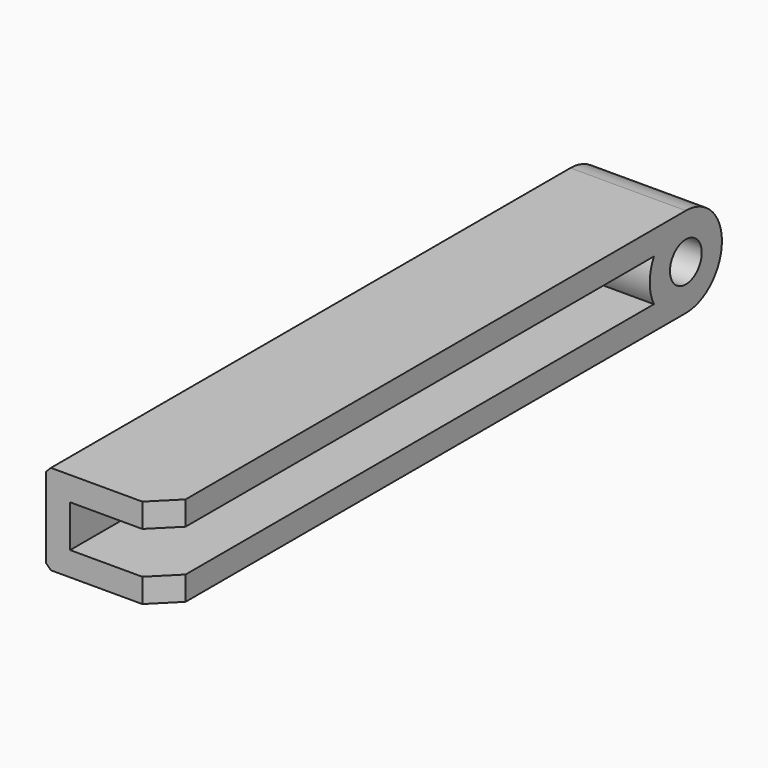
from build123d import *

# Parameters (mm, degrees)
CYLINDER018_R      = 1.65
CYLINDER018_DEPTH  = 10
CYLINDER017_R      = 3.75
CYLINDER017_DEPTH  = 10
BOX013_W           = 10
BOX013_H           = 54
BOX013_DEPTH       = 2
BOX012_W           = 10
BOX012_H           = 54
BOX012_DEPTH       = 2
BOX014_W           = 2
BOX014_H           = 54
BOX014_DEPTH       = 7.5
CHAMFER006002_SIZE = 2
CHAMFER006003_SIZE = 0.4


with BuildPart() as cylinder018:
    # Cylinder018 → Cylinder018 (new body)
    with BuildSketch(Plane(origin=(-10, 4, 31.75), x_dir=(0, 0, -1), z_dir=(1, 0, 0))):
        Circle(CYLINDER018_R)
    extrude(amount=CYLINDER018_DEPTH)


with BuildPart() as cylinder017:
    # Cylinder017 → Cylinder017 (new body)
    with BuildSketch(Plane(origin=(-10, 4, 31.75), x_dir=(0, 0, -1), z_dir=(1, 0, 0))):
        Circle(CYLINDER017_R)
    extrude(amount=CYLINDER017_DEPTH)


with BuildPart() as cube013:
    # Box013 → Box013 (new body)
    with BuildSketch(Plane(origin=(-10, -50, 33.5), x_dir=(1, 0, 0), z_dir=(0, 0, 1))):
        with Locations((5, 27)):
            Rectangle(BOX013_W, BOX013_H)
    extrude(amount=BOX013_DEPTH)


with BuildPart() as cube012:
    # Box012 → Box012 (new body)
    with BuildSketch(Plane(origin=(-10, -50, 28), x_dir=(1, 0, 0), z_dir=(0, 0, 1))):
        with Locations((5, 27)):
            Rectangle(BOX012_W, BOX012_H)
    extrude(amount=BOX012_DEPTH)


with BuildPart() as top_arm:
    # Box014 → Box014 (new body)
    with BuildSketch(Plane(origin=(-10, -50, 28), x_dir=(1, 0, 0), z_dir=(0, 0, 1))):
        with Locations((1, 27)):
            Rectangle(BOX014_W, BOX014_H)
    extrude(amount=BOX014_DEPTH)

    # Fusion020006007003002009010: union Cylinder017, Cube013, Cube012
    add(cylinder017.part)
    add(cube013.part)
    add(cube012.part)

    # Chamfer006002
    chamfer006002_edges = [top_arm.edges().sort_by_distance(p)[0] for p in [
        (0, -50, 29),
        (0, -50, 34.5),
    ]]
    chamfer(chamfer006002_edges, length=CHAMFER006002_SIZE)

    # Chamfer006003
    chamfer006003_edges = [top_arm.edges().sort_by_distance(p)[0] for p in [
        (-10, 7.75, 31.75),
        (-10, -23, 28),
        (-10, -23, 35.5),
    ]]
    chamfer(chamfer006003_edges, length=CHAMFER006003_SIZE)

    # Cut010: cut Cylinder018
    add(cylinder018.part, mode=Mode.SUBTRACT)


solid = top_arm.part
